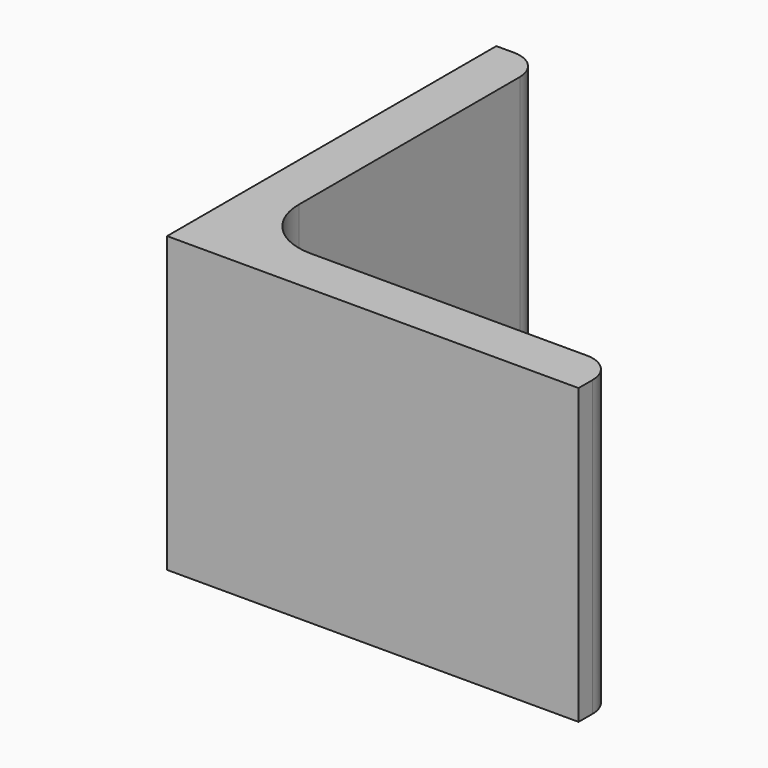
from build123d import *

# Parameters (mm, degrees)
EXTRUDE_DEPTH = 50


with BuildPart() as part:
    # Sketch → Extrude (new body)
    with BuildSketch(Plane.XY):
        with BuildLine():
            Line((0, 0), (70, 0))
            Line((70, 0), (70, 3))
            ThreePointArc((70, 3), (68.535534, 6.535534), (65, 8))
            Line((65, 8), (18, 8))
            ThreePointArc((8, 18), (10.928932, 10.928932), (18, 8))
            Line((8, 65), (8, 18))
            ThreePointArc((8, 65), (6.535534, 68.535534), (3, 70))
            Line((0, 70), (3, 70))
            Line((0, 0), (0, 70))
        make_face()
    extrude(amount=EXTRUDE_DEPTH)


solid = part.part
